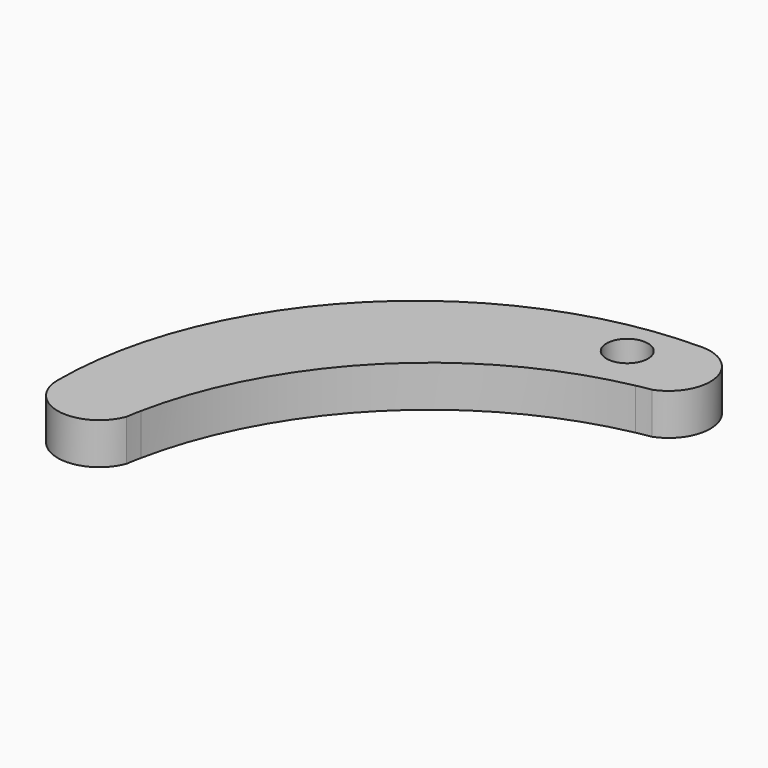
from build123d import *

# Parameters (mm, degrees)
F0_R     = 1.5875
F1_DEPTH = 3.175


with BuildPart() as f1:
    # F0 (on Top) → F1 (new body)
    with BuildSketch(Plane.XY):
        with BuildLine():
            ThreePointArc((-5.398182, 26.445581), (-4.837228, 26.553914), (-4.274107, 26.65035))
            ThreePointArc((-4.274107, 26.65035), (-2.26211, 30.204549), (-5.398182, 32.820944))
            ThreePointArc((-5.398182, 32.820944), (-24.789003, 24.789003), (-32.820944, 5.398182))
            ThreePointArc((-32.820944, 5.398182), (-30.204549, 2.26211), (-26.65035, 4.274107))
            ThreePointArc((-26.65035, 4.274107), (-26.553914, 4.837228), (-26.445581, 5.398182))
            ThreePointArc((-26.445581, 5.398182), (-19.085454, 19.085454), (-5.398182, 26.445581))
        make_face()
        with Locations((-8.573182, 29.633263)):
            Circle(F0_R, mode=Mode.SUBTRACT)
    extrude(amount=-F1_DEPTH)


solid = f1.part
